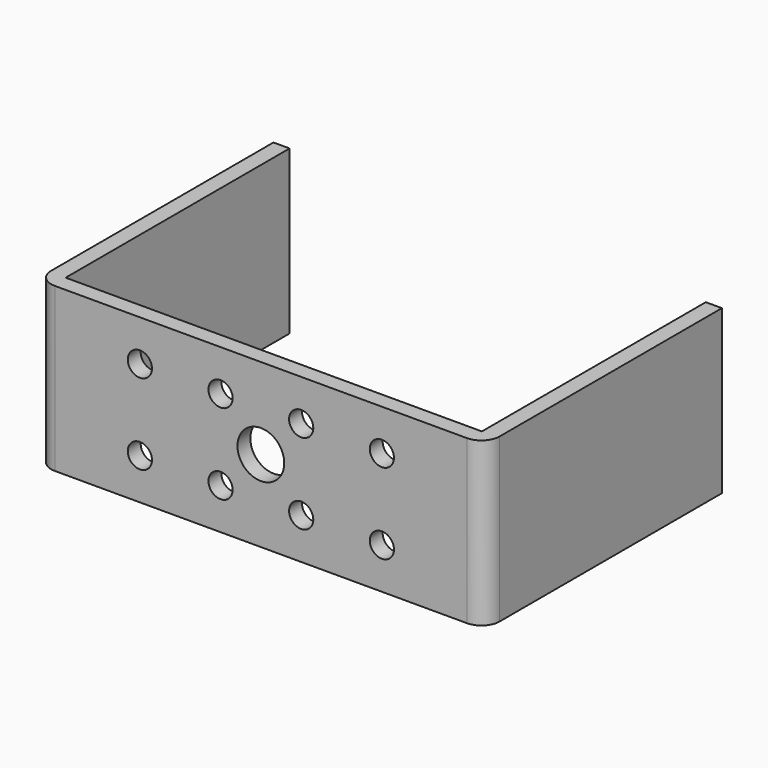
from build123d import *

# Parameters (mm, degrees)
PAD_DEPTH     = 20.2
SKETCH001_R   = 2.9
SKETCH001_R_2 = 1.5
POCKET_DEPTH  = 2


with BuildPart() as part:
    # Sketch → Pad (new body)
    with BuildSketch(Plane.XY):
        with BuildLine():
            Line((-27.8, 17.35), (-25.8, 17.35))
            Line((-25.8, 17.35), (-25.8, -17.35))
            Line((-25.8, -17.35), (25.8, -17.35))
            Line((25.8, -17.35), (25.8, 17.35))
            Line((25.8, 17.35), (27.8, 17.35))
            Line((27.8, 17.35), (27.8, -17.1))
            ThreePointArc((25.55, -19.35), (27.14099, -18.69099), (27.8, -17.1))
            Line((25.55, -19.35), (-25.55, -19.35))
            ThreePointArc((-27.8, -17.1), (-27.14099, -18.69099), (-25.55, -19.35))
            Line((-27.8, -17.1), (-27.8, 17.35))
        make_face()
    extrude(amount=PAD_DEPTH)

    # Sketch001 (on Face9 of Pad) → Pocket (cut)
    with BuildSketch(Plane.XZ.offset(19.35)):
        with Locations((0, 10.1)):
            Circle(SKETCH001_R)
        with Locations((5, 15.1)):
            Circle(SKETCH001_R_2)
        with Locations((-5, 15.1)):
            Circle(SKETCH001_R_2)
        with Locations((-5, 5.1)):
            Circle(SKETCH001_R_2)
        with Locations((5, 5.1)):
            Circle(SKETCH001_R_2)
        with Locations((-15, 15.1)):
            Circle(SKETCH001_R_2)
        with Locations((-15, 5.1)):
            Circle(SKETCH001_R_2)
        with Locations((15, 15.1)):
            Circle(SKETCH001_R_2)
        with Locations((15, 5.1)):
            Circle(SKETCH001_R_2)
    extrude(amount=-POCKET_DEPTH, mode=Mode.SUBTRACT)


solid = part.part
